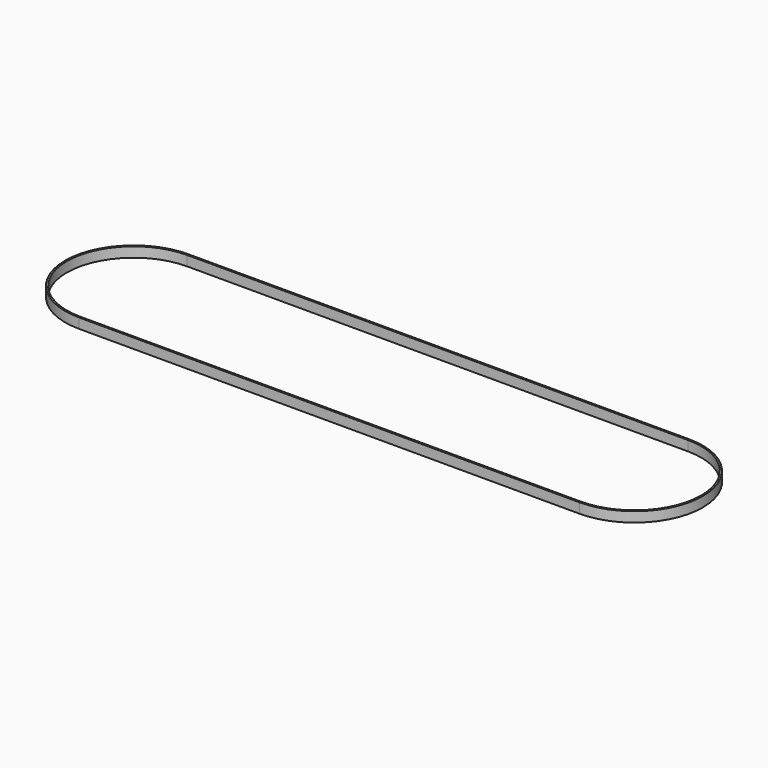
from build123d import *

# Parameters (mm, degrees)
PAD_DEPTH = 6


with BuildPart() as part:
    # Sketch → Pad (new body)
    with BuildSketch(Plane.XY):
        with BuildLine():
            ThreePointArc((0, 41), (-41, 0), (0, -41))
            Line((300.000005, -41), (0, -41))
            ThreePointArc((300.000005, -41), (341, 0), (300.000005, 41))
            Line((0, 41), (300.000005, 41))
        make_face()
        with BuildLine():
            ThreePointArc((0, 40), (-40, 0), (0, -40))
            Line((0, -40), (300.000002, -40))
            ThreePointArc((300.000002, -40), (340, 0), (300.000001, 40))
            Line((0, 40), (300.000001, 40))
        make_face(mode=Mode.SUBTRACT)
    extrude(amount=PAD_DEPTH)


solid = part.part
